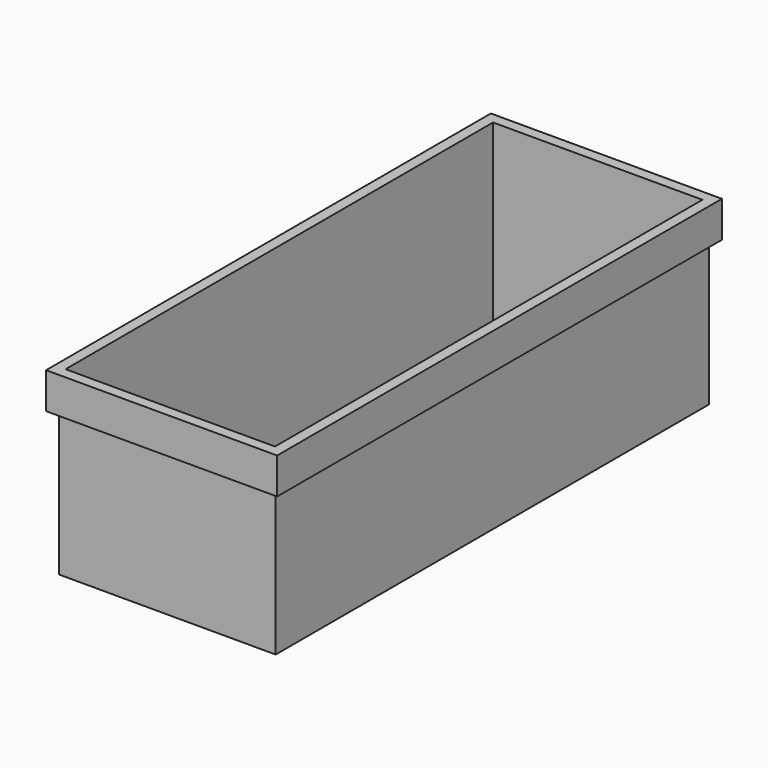
from build123d import *

# Parameters (mm, degrees)
F0_W     = 152.4
F0_H     = 127
F1_DEPTH = 381
F2_T     = -2.54
F3_W     = 162.56
F3_H     = 391.16
F3_W_2   = 152.4
F3_H_2   = 381
F4_DEPTH = 25.4


with BuildPart() as f1:
    # F0 (on Front) → F1 (new body)
    with BuildSketch(Plane.XZ):
        with Locations((76.2, 63.5)):
            Rectangle(F0_W, F0_H)
    extrude(amount=-F1_DEPTH)

    # F2
    f2_openings = [f1.faces().sort_by_distance(p)[0] for p in [
        (76.2, 190.5, 127),
    ]]
    offset(amount=F2_T, openings=f2_openings)

    # F3 (on face) → F4 (join)
    with BuildSketch(Plane.XY.offset(127)):
        with Locations((76.2, 190.5)):
            Rectangle(F3_W, F3_H)
        with Locations((76.2, 190.5)):
            Rectangle(F3_W_2, F3_H_2, mode=Mode.SUBTRACT)
    extrude(amount=-F4_DEPTH)


solid = f1.part
